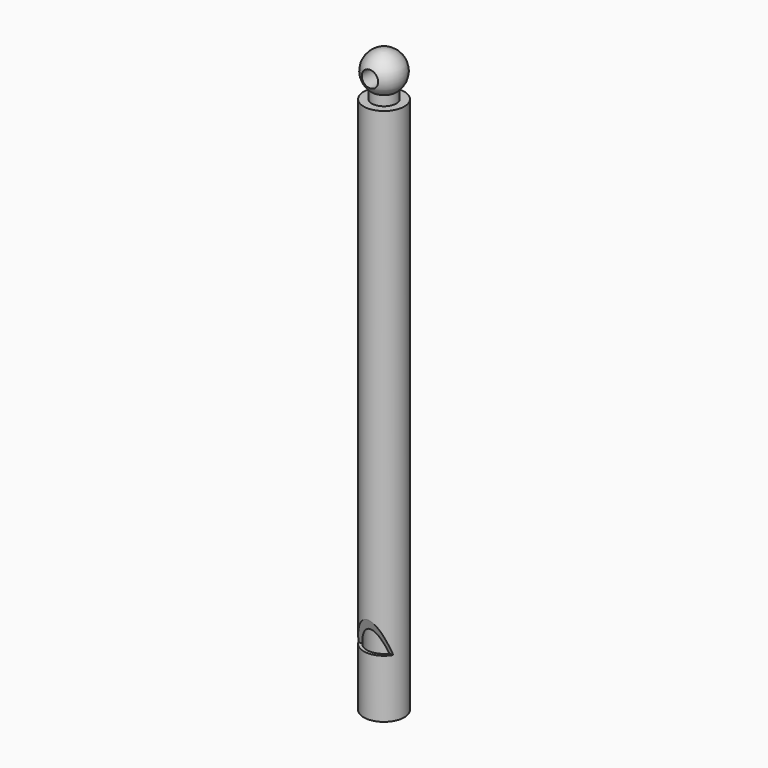
from build123d import *

# Parameters (mm, degrees)
F2_R     = 1.25
F3_DEPTH = 12.7
F5_DEPTH = 12.7
F6_R     = 2.6
F7_DEPTH = 81
F9_DEPTH = 0.5


with BuildPart() as f1:
    # F0 (on Front) → F1 (revolve)
    with BuildSketch(Plane.XZ):
        with BuildLine():
            Line((0, -86.066867), (0, 2.965))
            ThreePointArc((0, 2.965), (-2.792977, 0.995242), (-1.875, -2.296867))
            Line((-1.875, -2.296867), (-1.875, -3.796867))
            Line((-1.875, -3.796867), (-3.1, -3.796867))
            Line((-3.1, -3.796867), (-3.1, -86.066867))
            Line((-3.1, -86.066867), (0, -86.066867))
        make_face()
    revolve(axis=Axis((0, 0, -41.550934), (0, 0, 1)))

    # F2 (on Front) → F3 (cut, symmetric)
    with BuildSketch(Plane.XZ):
        Circle(F2_R)
    extrude(amount=F3_DEPTH, both=True, mode=Mode.SUBTRACT)

    # F4 (on Right) → F5 (cut, symmetric)
    with BuildSketch(Plane.YZ):
        Polygon((-3.100019, -72.666867), (-3.100019, -77.166867), (-1.560019, -77.166867), align=None)
    extrude(amount=F5_DEPTH, both=True, mode=Mode.SUBTRACT)

    # F6 (on face) → F7 (cut)
    with BuildSketch(Plane(origin=(0, 0, -86.066867), x_dir=(1, 0, 0), z_dir=(0, 0, -1))):
        Circle(F6_R)
    extrude(amount=-F7_DEPTH, mode=Mode.SUBTRACT)

    # F8 (on face) → F9 (join)
    with BuildSketch(Plane(origin=(0, 0, -86.066867), x_dir=(1, 0, 0), z_dir=(0, 0, -1))):
        with BuildLine():
            ThreePointArc((-2, 1.661325), (-0.883176, -2.445404), (2.6, 0))
            ThreePointArc((2.6, 0), (2.445404, 0.883176), (2, 1.661325))
            Line((2, 1.661325), (-2, 1.661325))
        make_face()
    extrude(amount=-F9_DEPTH)


solid = f1.part
